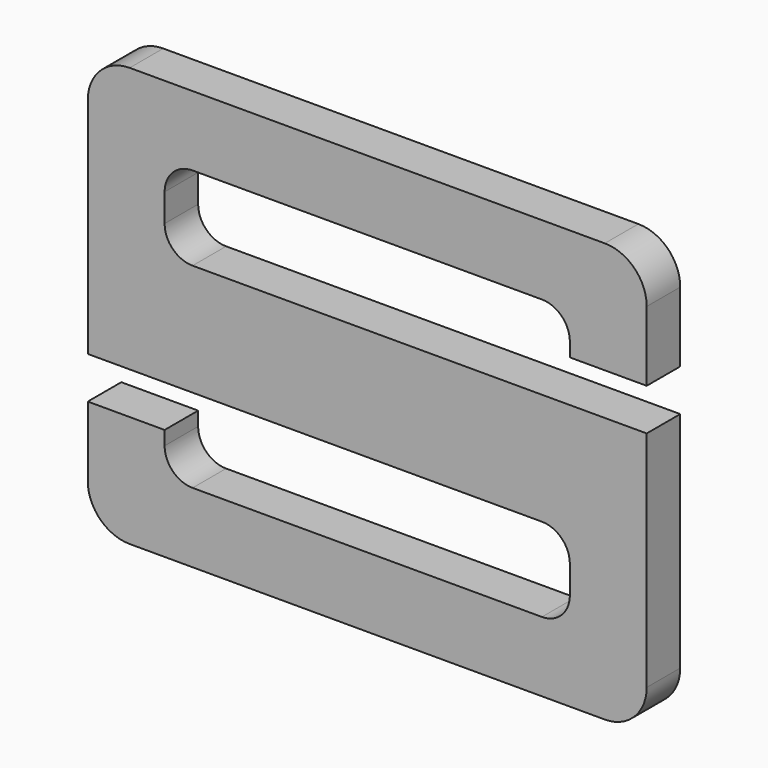
from build123d import *

# Parameters (mm, degrees)
F1_DEPTH = 3


with BuildPart() as f1:
    # F0 (on Front) → F1 (new body)
    with BuildSketch(Plane.XZ):
        with BuildLine():
            ThreePointArc((20, 12), (19.12132, 14.12132), (17, 15))
            Line((17, 15), (-17, 15))
            ThreePointArc((-17, 15), (-19.12132, 14.12132), (-20, 12))
            Line((-20, 12), (-20, -4))
            Line((-20, -4), (12.5, -4))
            ThreePointArc((12.5, -4), (13.914214, -4.585786), (14.5, -6))
            Line((14.5, -6), (14.5, -8))
            ThreePointArc((14.5, -8), (13.914214, -9.414214), (12.5, -10))
            Line((12.5, -10), (-12.5, -10))
            ThreePointArc((-12.5, -10), (-13.914214, -9.414214), (-14.5, -8))
            Line((-14.5, -8), (-14.5, -7))
            Line((-14.5, -7), (-20, -7))
            Line((-20, -7), (-20, -12))
            ThreePointArc((-20, -12), (-19.12132, -14.12132), (-17, -15))
            Line((-17, -15), (17, -15))
            ThreePointArc((17, -15), (19.12132, -14.12132), (20, -12))
            Line((20, -12), (20, 4))
            Line((20, 4), (-12.5, 4))
            ThreePointArc((-12.5, 4), (-13.914214, 4.585786), (-14.5, 6))
            Line((-14.5, 6), (-14.5, 8))
            ThreePointArc((-14.5, 8), (-13.914214, 9.414214), (-12.5, 10))
            Line((-12.5, 10), (12.5, 10))
            ThreePointArc((12.5, 10), (13.914214, 9.414214), (14.5, 8))
            Line((14.5, 8), (14.5, 7))
            Line((14.5, 7), (20, 7))
            Line((20, 7), (20, 12))
        make_face()
    extrude(amount=F1_DEPTH)


solid = f1.part
